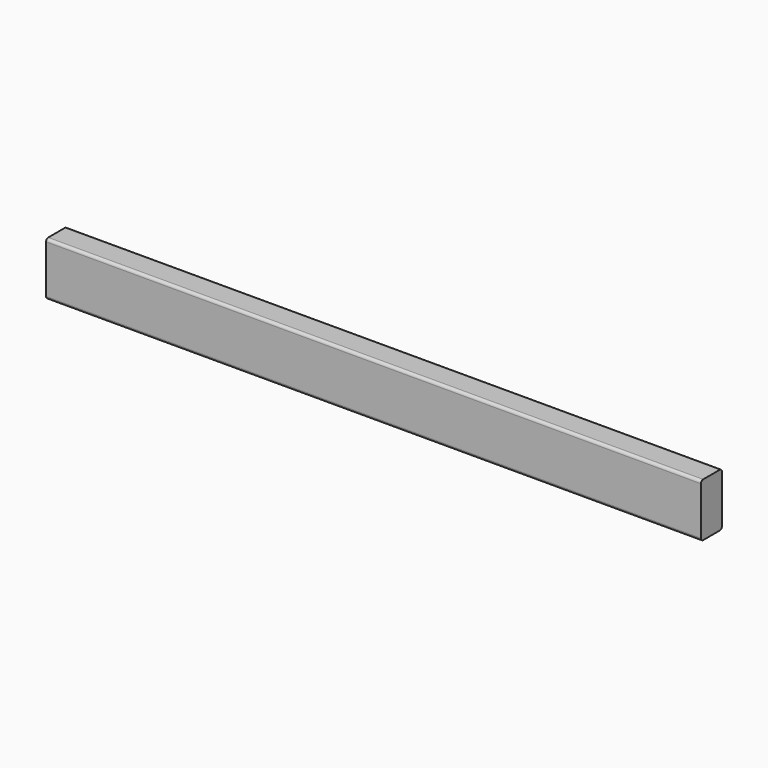
from build123d import *

# Parameters (mm, degrees)
F0_W     = 1200
F0_H     = 48
F1_DEPTH = 49
F2_R     = 5


with BuildPart() as f1:
    # F0 (on Top) → F1 (new body, symmetric)
    with BuildSketch(Plane.XY):
        Rectangle(F0_W, F0_H)
    extrude(amount=F1_DEPTH, both=True)

    # F2
    f2_edges = [f1.edges().sort_by_distance(p)[0] for p in [
        (0, -24, 49),
        (0, 24, 49),
        (0, -24, -49),
        (0, 24, -49),
    ]]
    fillet(f2_edges, radius=F2_R)


solid = f1.part
